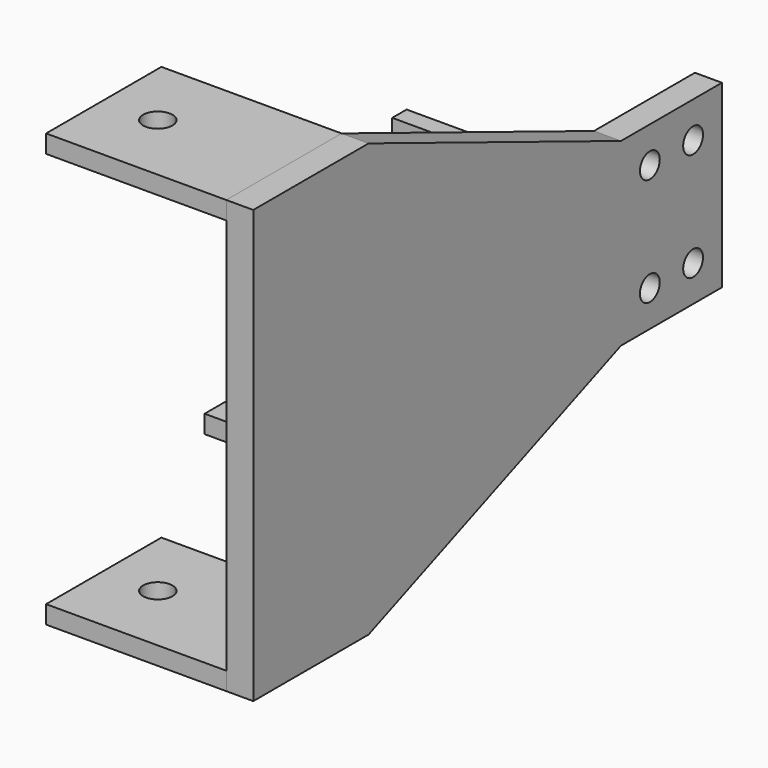
from build123d import *

# Parameters (mm, degrees)
F0_R     = 8.73125
F1_DEPTH = 19.05
F2_W     = 127
F2_H     = 101.6000000041
F2_R     = 10.31875
F3_DEPTH = 12.7
F5_W     = 25.4
F5_H     = 121.2828524489
F5_W_2   = 69.85
F5_H_2   = 114.3
F6_DEPTH = 6.35
F7_W     = 12.7
F7_H     = 76.2
F8_DEPTH = 127
F10_D    = 16.66748


with BuildPart() as f1:
    # F0 (on Right) → F1 (new body)
    with BuildSketch(Plane.YZ):
        Polygon((44.45, 63.5), (-44.45, 63.5), (-266.8735152621, 152.4009127194), (-368.4735152621, 152.4), (-368.4735152621, -152.4), (-266.8735152621, -152.4009127194), (-44.45, -63.5), (44.45, -63.5), align=None)
        with Locations((-19.05, -38.1)):
            Circle(F0_R, mode=Mode.SUBTRACT)
        with Locations((19.05, -38.1)):
            Circle(F0_R, mode=Mode.SUBTRACT)
        with Locations((-19.05, 38.1)):
            Circle(F0_R, mode=Mode.SUBTRACT)
        with Locations((19.05, 38.1)):
            Circle(F0_R, mode=Mode.SUBTRACT)
    extrude(amount=F1_DEPTH)

    # F2 (on face) → F3 (join)
    with BuildSketch(Plane(origin=(0, -0.0013691088, 152.4033101543), x_dir=(1, 0, 0), z_dir=(0, -8.9835e-06, 1))):
        with Locations((-63.5, -317.6721461661)):
            Rectangle(F2_W, F2_H)
        with Locations((-88.9, -317.6721461661)):
            Circle(F2_R, mode=Mode.SUBTRACT)
    extrude(amount=-F3_DEPTH)

    # F4: F1 across plane


with BuildPart() as f1_1:
    add(f1.part)
    add(f1.part.mirror(Plane.XY))

    # F5 (on Top) → F6 (join, symmetric)
    with BuildSketch(Plane.XY):
        with Locations((-12.7, -295.1320890376)):
            Rectangle(F5_W, F5_H)
        Polygon((-25.4, -234.4906628132), (0, -234.4906628132), (0, -177.8), (-69.85, -177.8), align=None)
        with Locations((-34.925, -120.65)):
            Rectangle(F5_W_2, F5_H_2)
    extrude(amount=F6_DEPTH, both=True)

    # F7 (on face) → F8 (join)
    with BuildSketch(Plane(origin=(0, 0, 0), x_dir=(0, -1, 0), z_dir=(-1, 0, 0))):
        with Locations((57.15, 0)):
            Rectangle(F7_W, F7_H)
    extrude(amount=F8_DEPTH)

    # F10 (through all)
    with Locations(Plane(origin=(0, -50.8, 0), x_dir=(-1, 0, 0), z_dir=(0, 1, 0))):
        with Locations((88.9, 19.05), (88.9, -19.05)):
            Hole(F10_D / 2)


solid = f1_1.part
